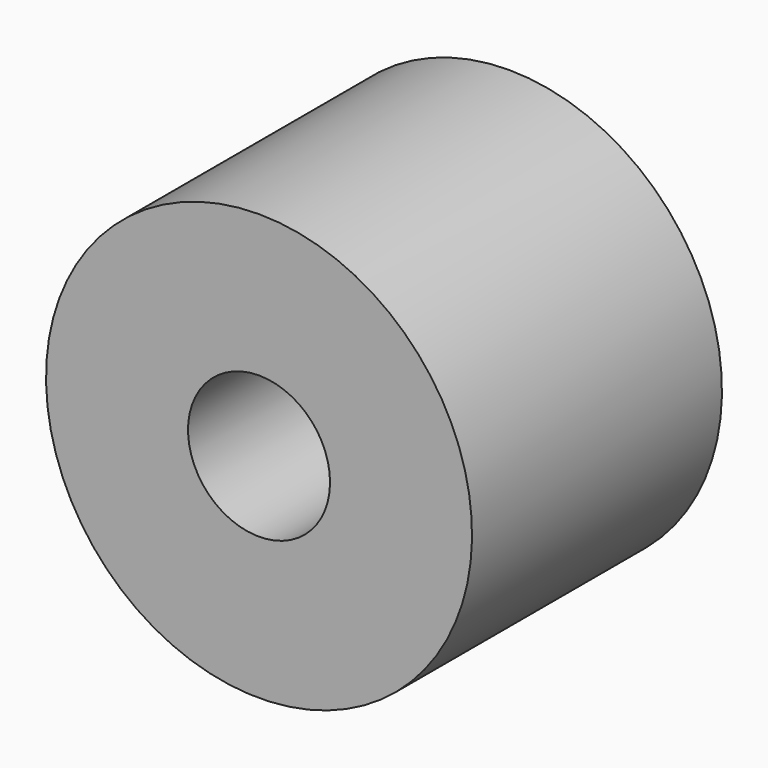
from build123d import *

# Parameters (mm, degrees)
F1_DEPTH = 8
F2_DEPTH = 3
F4_DEPTH = 11


with BuildPart() as f1:
    # F0 (on Front) → F1 (new body)
    with BuildSketch(Plane.XZ):
        with BuildLine():
            ThreePointArc((-30.0701617141, 46.3723698281), (-35.6321374629, 46.5684078352), (-41.1665091954, 47.1555489225))
            ThreePointArc((-41.1665091954, 47.1555489225), (-30.0701617141, -22.1997679505), (-18.9738142329, 47.1555489225))
            ThreePointArc((-18.9738142329, 47.1555489225), (-24.5081859654, 46.5684078352), (-30.0701617141, 46.3723698281))
        make_face()
        with BuildLine():
            ThreePointArc((-22.5701617141, 13.3655580288), (-35.373462573, 8.0622571699), (-30.0701617141, 20.8655580288))
            ThreePointArc((-30.0701617141, 20.8655580288), (-24.7668608552, 18.6688588877), (-22.5701617141, 13.3655580288))
        make_face(mode=Mode.SUBTRACT)
    extrude(amount=F1_DEPTH)

    # F0 (on Front) → F2 (join)
    with BuildSketch(Plane.XZ):
        with BuildLine():
            ThreePointArc((-30.0701617141, 56.2795021275), (-36.9667710759, 53.357462718), (-41.1665091954, 47.1555489225))
            ThreePointArc((-41.1665091954, 47.1555489225), (-35.6321374629, 46.5684078352), (-30.0701617141, 46.3723698281))
            Line((-30.0701617141, 46.3723698281), (-30.0701617141, 50.7215580288))
            ThreePointArc((-30.0701617141, 50.7215580288), (-32.0701617141, 52.7215580288), (-30.0701617141, 54.7215580288))
            Line((-30.0701617141, 54.7215580288), (-30.0701617141, 56.2795021275))
        make_face()
        with BuildLine():
            ThreePointArc((-30.0701617141, 46.3723698281), (-24.5081859654, 46.5684078352), (-18.9738142329, 47.1555489225))
            ThreePointArc((-18.9738142329, 47.1555489225), (-23.1735523524, 53.357462718), (-30.0701617141, 56.2795021275))
            Line((-30.0701617141, 56.2795021275), (-30.0701617141, 54.7215580288))
            ThreePointArc((-30.0701617141, 54.7215580288), (-28.6559481518, 54.1357715912), (-28.0701617141, 52.7215580288))
            ThreePointArc((-28.0701617141, 52.7215580288), (-28.6559481518, 51.3073444665), (-30.0701617141, 50.7215580288))
            Line((-30.0701617141, 50.7215580288), (-30.0701617141, 46.3723698281))
        make_face()
    extrude(amount=F2_DEPTH)


with BuildPart() as f4:
    # F0 (on Front) → F4 (new body)
    with BuildSketch(Plane.XZ):
        with BuildLine():
            ThreePointArc((-22.5701617141, 13.3655580288), (-24.7668608552, 18.6688588877), (-30.0701617141, 20.8655580288))
            ThreePointArc((-30.0701617141, 20.8655580288), (-35.373462573, 8.0622571699), (-22.5701617141, 13.3655580288))
        make_face()
        with BuildLine():
            ThreePointArc((-27.5701617141, 13.3655580288), (-31.8379286671, 11.5977910759), (-30.0701617141, 15.8655580288))
            ThreePointArc((-30.0701617141, 15.8655580288), (-28.3023947612, 15.1333249818), (-27.5701617141, 13.3655580288))
        make_face(mode=Mode.SUBTRACT)
    extrude(amount=F4_DEPTH)


solid = f4.part
